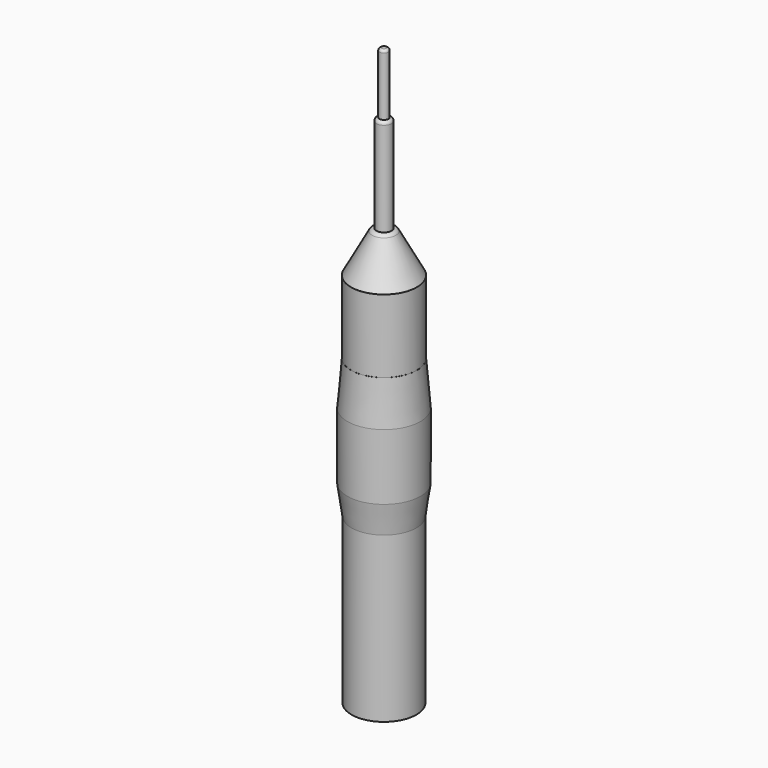
from build123d import *

# Parameters (mm, degrees)
CYLINDER004_R     = 1330
CYLINDER004_DEPTH = 6745
CYLINDER003_R     = 1500
CYLINDER003_DEPTH = 2700
CYLINDER002_R     = 1350
CYLINDER002_DEPTH = 3000
CYLINDER001_R     = 310
CYLINDER001_DEPTH = 4000
FILLET001_R       = 130
CYLINDER_R        = 185
CYLINDER_DEPTH    = 2515
FILLET_R          = 100
FILLET002_R       = 200
ARRAY_COUNT       = 4


with BuildPart() as cylinder004:
    # Cylinder004 → Cylinder004 (new body)
    with BuildSketch(Plane(origin=(0, 0, -14400), x_dir=(-1, 0, 0), z_dir=(0, 0, -1))):
        Circle(CYLINDER004_R)
    extrude(amount=CYLINDER004_DEPTH)


with BuildPart() as cone002:
    # Cone002 → Cone002 (revolve)
    with BuildSketch(Plane(origin=(0, 0, -14400), x_dir=(1, 0, 0), z_dir=(0, -1, 0))):
        Polygon((0, 0), (1330, 0), (1500, 1200), (0, 1200), align=None)
    revolve(axis=Axis((0, 0, -14400), (0, 0, 1)))


with BuildPart() as cylinder003:
    # Cylinder003 → Cylinder003 (new body)
    with BuildSketch(Plane(origin=(0, 0, -10500), x_dir=(-1, 0, 0), z_dir=(0, 0, -1))):
        Circle(CYLINDER003_R)
    extrude(amount=CYLINDER003_DEPTH)


with BuildPart() as cone001:
    # Cone001 → Cone001 (revolve)
    with BuildSketch(Plane(origin=(0, 0, -8700), x_dir=(-1, 0, 0), z_dir=(0, -1, 0))):
        Polygon((0, 0), (1350, 0), (1500, 1800), (0, 1800), align=None)
    revolve(axis=Axis((0, 0, -8700), (0, 0, -1)))


with BuildPart() as cylinder002:
    # Cylinder002 → Cylinder002 (new body)
    with BuildSketch(Plane(origin=(0, 0, -5698), x_dir=(-1, 0, 0), z_dir=(0, 0, -1))):
        Circle(CYLINDER002_R)
    extrude(amount=CYLINDER002_DEPTH)


with BuildPart() as fillet001:
    # Cylinder001 → Cylinder001 (new body)
    with BuildSketch(Plane(origin=(0, 0, 0), x_dir=(-1, 0, 0), z_dir=(0, 0, -1))):
        Circle(CYLINDER001_R)
    extrude(amount=CYLINDER001_DEPTH)

    # Fillet001
    fillet001_edges = [fillet001.edges().sort_by_distance(p)[0] for p in [
        (310, 0, 0),
    ]]
    fillet(fillet001_edges, radius=FILLET001_R)


with BuildPart() as cone:
    # Cone → Cone (revolve)
    with BuildSketch(Plane(origin=(0, 0, -3999), x_dir=(-1, 0, 0), z_dir=(0, -1, 0))):
        Polygon((0, 0), (430, 0), (1350, 1700), (0, 1700), align=None)
    revolve(axis=Axis((0, 0, -3999), (0, 0, -1)))


with BuildPart() as fillet002:
    # Cylinder → Cylinder (new body)
    with BuildSketch(Plane.XY):
        Circle(CYLINDER_R)
    extrude(amount=CYLINDER_DEPTH)

    # Fillet
    fillet_edges = [fillet002.edges().sort_by_distance(p)[0] for p in [
        (-185, 0, 2515),
    ]]
    fillet(fillet_edges, radius=FILLET_R)

    # Fusion: union Fillet001, Cone
    add(fillet001.part)
    add(cone.part)

    # Fillet002
    fillet002_edges = [fillet002.edges().sort_by_distance(p)[0] for p in [
        (430, 0, -3999),
    ]]
    fillet(fillet002_edges, radius=FILLET002_R)


with BuildPart() as fusion001:
    # Cone003 → Cone003 (revolve)
    with BuildSketch(Plane(origin=(-600, 0, -21100), x_dir=(-1, 0, 0), z_dir=(0, -1, 0))):
        Polygon((0, 0), (300, 0), (350, 250), (0, 250), align=None)
    revolve(axis=Axis((-600, 0, -21100), (0, 0, -1)))

    # Array: Fusion001 ×4 about axis
    array_axis = Axis((0, 0, 1), (0, 0, 1))


with BuildPart() as fusion001_1:
    add(fusion001.part)
    for i in range(1, ARRAY_COUNT):
        add(fusion001.part.rotate(array_axis, i * 360 / ARRAY_COUNT))

    # Fusion001: union Cylinder004, Cone002, Cylinder003, Cone001, Cylinder002, Fillet002
    add(cylinder004.part)
    add(cone002.part)
    add(cylinder003.part)
    add(cone001.part)
    add(cylinder002.part)
    add(fillet002.part)


solid = fusion001_1.part
